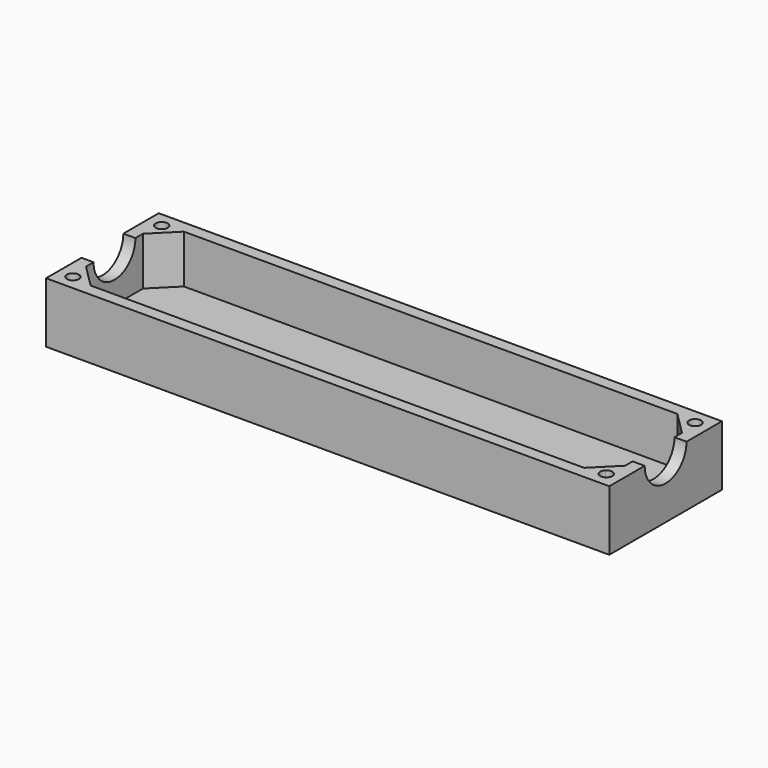
from build123d import *

# Parameters (mm, degrees)
F0_W     = 70
F0_H     = 17.5
F1_DEPTH = 7.5
F2_T     = -1.5
F4_DEPTH = 6
F6_DEPTH = 3
F7_R     = 3.25
F8_DEPTH = 70.001


with BuildPart() as f1:
    # F0 (on Top) → F1 (new body)
    with BuildSketch(Plane.XY):
        Rectangle(F0_W, F0_H)
    extrude(amount=F1_DEPTH)

    # F2
    f2_openings = [f1.faces().sort_by_distance(p)[0] for p in [
        (0, 0, 7.5),
    ]]
    offset(amount=F2_T, openings=f2_openings)

    # F3 (on face) → F4 (join, through all)
    with BuildSketch(Plane.XY.offset(1.5)):
        Polygon((-33.5, 7.25), (-33.5, 4.421573), (-30.671573, 7.25), align=None)
        Polygon((30.671573, 7.25), (33.5, 4.421573), (33.5, 7.25), align=None)
        Polygon((33.5, -7.25), (33.5, -4.421573), (30.671573, -7.25), align=None)
        Polygon((-33.5, -4.421573), (-33.5, -7.25), (-30.671573, -7.25), align=None)
    extrude(amount=F4_DEPTH)

    # F5 (on face) → F6 (cut)
    with BuildSketch(Plane.XY.offset(7.5)):
        with BuildLine():
            ThreePointArc((-32.616117, 6.366117), (-32.453537, 6.609434), (-32.396447, 6.896447))
            ThreePointArc((-32.396447, 6.896447), (-33.839356, 7.183459), (-32.616117, 6.366117))
        make_face()
        with BuildLine():
            ThreePointArc((-32.616117, -6.366117), (-33.839356, -7.183459), (-32.396447, -6.896447))
            ThreePointArc((-32.396447, -6.896447), (-32.453537, -6.609434), (-32.616117, -6.366117))
        make_face()
        with BuildLine():
            ThreePointArc((32.616117, 6.366117), (33.433459, 6.203537), (33.896447, 6.896447))
            ThreePointArc((33.896447, 6.896447), (32.859434, 7.589356), (32.616117, 6.366117))
        make_face()
        with BuildLine():
            ThreePointArc((32.616117, -6.366117), (32.859434, -7.589356), (33.896447, -6.896447))
            ThreePointArc((33.896447, -6.896447), (33.433459, -6.203537), (32.616117, -6.366117))
        make_face()
    extrude(amount=-F6_DEPTH, mode=Mode.SUBTRACT)

    # F7 (on face) → F8 (cut, through all)
    with BuildSketch(Plane.YZ.offset(35)):
        with Locations((0, 7.5)):
            Circle(F7_R)
    extrude(amount=-F8_DEPTH, mode=Mode.SUBTRACT)


solid = f1.part
